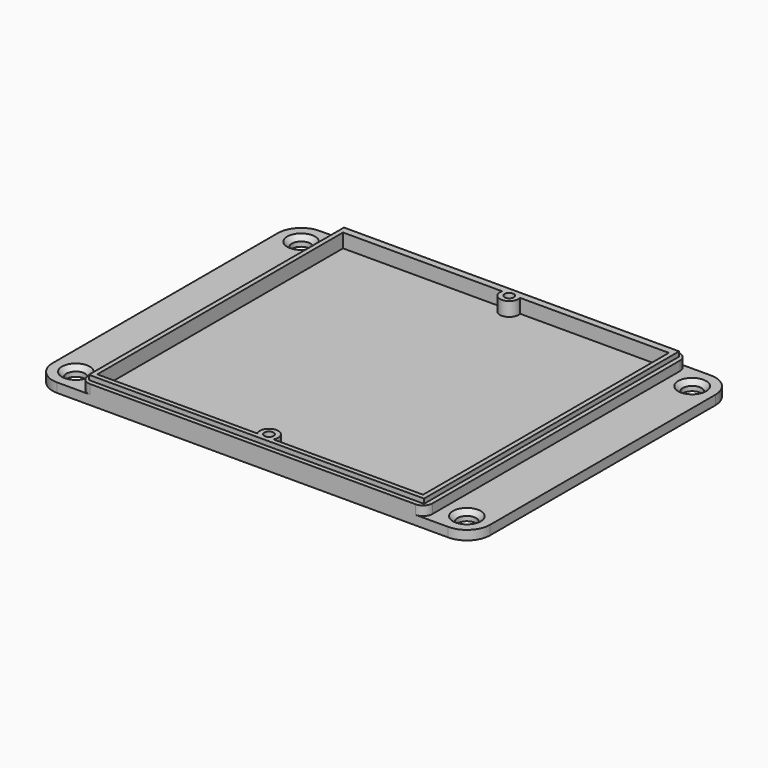
from build123d import *

# Parameters (mm, degrees)
CYLINDER004_R            = 2
CYLINDER004_DEPTH        = 10
ARRAY005_Y_COUNT         = 2
ARRAY005_Y_PITCH         = 60.5
BOX007_W                 = 10
BOX007_H                 = 70.5
BOX007_DEPTH             = 2
ARRAY006_X_COUNT         = 2
ARRAY006_X_PITCH         = 84
CYLINDER003_R            = 2.5
CYLINDER003_DEPTH        = 1.5
ARRAY004_Y_COUNT         = 2
ARRAY004_Y_PITCH         = 64.5
CYLINDER002_R            = 1
CYLINDER002_DEPTH        = 20
ARRAY003_Y_COUNT         = 2
ARRAY003_Y_PITCH         = 64.5
PCB_BOUNDING_BOX_1_W     = 70
PCB_BOUNDING_BOX_1_H     = 66
PCB_BOUNDING_BOX_1_DEPTH = 20
BOX001_W                 = 72
BOX001_H                 = 68.5
BOX001_DEPTH             = 1
BOX_W                    = 74
BOX_H                    = 70.5
BOX_DEPTH                = 4
CYLINDER_R               = 2
CYLINDER_DEPTH           = 3
ARRAY_Y_COUNT            = 2
ARRAY_Y_PITCH            = 64.5
FILLET001_R              = 2
FILLET002_R              = 5
CHAMFER_SIZE             = 1


with BuildPart() as array005:
    # Cylinder004 → Cylinder004 (new body)
    with BuildSketch(Plane(origin=(144.146, -130.588, -4), x_dir=(1, 0, 0), z_dir=(0, 0, 1))):
        Circle(CYLINDER004_R)
    extrude(amount=CYLINDER004_DEPTH)

    # Array005 Y: Array005 ×2


with BuildPart() as array005_1:
    add(array005.part)
    with Locations(*[(0, i * ARRAY005_Y_PITCH, 0) for i in range(1, ARRAY005_Y_COUNT)]):
        add(array005.part)


with BuildPart() as array006:
    # Box007 → Box007 (new body)
    with BuildSketch(Plane(origin=(139.146, -135.588, -4), x_dir=(1, 0, 0), z_dir=(0, 0, 1))):
        with Locations((5, 35.25)):
            Rectangle(BOX007_W, BOX007_H)
    extrude(amount=BOX007_DEPTH)

    # Cut009: cut Array005
    add(array005_1.part, mode=Mode.SUBTRACT)

    # Array006 X: Array006 ×2


with BuildPart() as array006_1:
    add(array006.part)
    with Locations(*[(i * ARRAY006_X_PITCH, 0, 0) for i in range(1, ARRAY006_X_COUNT)]):
        add(array006.part)


with BuildPart() as array004:
    # Cylinder003 → Cylinder003 (new body)
    with BuildSketch(Plane(origin=(187.246, -132.588, -4), x_dir=(1, 0, 0), z_dir=(0, 0, 1))):
        Circle(CYLINDER003_R)
    extrude(amount=CYLINDER003_DEPTH)

    # Array004 Y: Array004 ×2


with BuildPart() as array004_1:
    add(array004.part)
    with Locations(*[(0, i * ARRAY004_Y_PITCH, 0) for i in range(1, ARRAY004_Y_COUNT)]):
        add(array004.part)


with BuildPart() as lochboden:
    # Cylinder002 → Cylinder002 (new body)
    with BuildSketch(Plane(origin=(187.246, -132.588, -4), x_dir=(1, 0, 0), z_dir=(0, 0, 1))):
        Circle(CYLINDER002_R)
    extrude(amount=CYLINDER002_DEPTH)

    # Array003 Y: LochBoden ×2


with BuildPart() as lochboden_1:
    add(lochboden.part)
    with Locations(*[(0, i * ARRAY003_Y_PITCH, 0) for i in range(1, ARRAY003_Y_COUNT)]):
        add(lochboden.part)


with BuildPart() as obj1:
    # PCB_Bounding_Box_1 → PCB_Bounding_Box_1 (new body)
    with BuildSketch(Plane(origin=(151.146, -133.588, -2), x_dir=(1, 0, 0), z_dir=(0, 0, 1))):
        with Locations((35, 33)):
            Rectangle(PCB_BOUNDING_BOX_1_W, PCB_BOUNDING_BOX_1_H)
    extrude(amount=PCB_BOUNDING_BOX_1_DEPTH)


with BuildPart() as obj2:
    # Box001 → Box001 (new body)
    with BuildSketch(Plane(origin=(150.146, -134.588, 0), x_dir=(1, 0, 0), z_dir=(0, 0, 1))):
        with Locations((36, 34.25)):
            Rectangle(BOX001_W, BOX001_H)
    extrude(amount=BOX001_DEPTH)


with BuildPart() as cut:
    # Box → Box (new body)
    with BuildSketch(Plane(origin=(149.146, -135.588, -4), x_dir=(1, 0, 0), z_dir=(0, 0, 1))):
        with Locations((37, 35.25)):
            Rectangle(BOX_W, BOX_H)
    extrude(amount=BOX_DEPTH)

    # Fusion: union obj2
    add(obj2.part)

    # Cut: cut obj1
    add(obj1.part, mode=Mode.SUBTRACT)


with BuildPart() as chamfer_body:
    # Cylinder → Cylinder (new body)
    with BuildSketch(Plane(origin=(187.246, -132.588, -2), x_dir=(1, 0, 0), z_dir=(0, 0, 1))):
        Circle(CYLINDER_R)
    extrude(amount=CYLINDER_DEPTH)

    # Array Y: Chamfer body ×2


with BuildPart() as chamfer_body_1:
    add(chamfer_body.part)
    with Locations(*[(0, i * ARRAY_Y_PITCH, 0) for i in range(1, ARRAY_Y_COUNT)]):
        add(chamfer_body.part)

    # Fusion003: union Cut
    add(cut.part)

    # Cut006: cut LochBoden
    add(lochboden_1.part, mode=Mode.SUBTRACT)

    # Cut008: cut Array004
    add(array004_1.part, mode=Mode.SUBTRACT)

    # Fusion005: union Array006
    add(array006_1.part)

    # Fillet001
    fillet001_edges = [chamfer_body_1.edges().sort_by_distance(p)[0] for p in [
        (149.146, -135.588, -1),
        (149.146, -65.088, -1),
        (223.146, -65.088, -1),
        (223.146, -135.588, -1),
    ]]
    fillet(fillet001_edges, radius=FILLET001_R)

    # Fillet002
    fillet002_edges = [chamfer_body_1.edges().sort_by_distance(p)[0] for p in [
        (139.146, -135.588, -3),
        (233.146, -135.588, -3),
        (139.146, -65.088, -3),
        (233.146, -65.088, -3),
    ]]
    fillet(fillet002_edges, radius=FILLET002_R)

    # Chamfer
    chamfer_edges = [chamfer_body_1.edges().sort_by_distance(p)[0] for p in [
        (142.146, -70.088, -2),
        (142.146, -130.588, -2),
        (226.146, -70.088, -2),
        (226.146, -130.588, -2),
    ]]
    chamfer(chamfer_edges, length=CHAMFER_SIZE)


solid = chamfer_body_1.part
